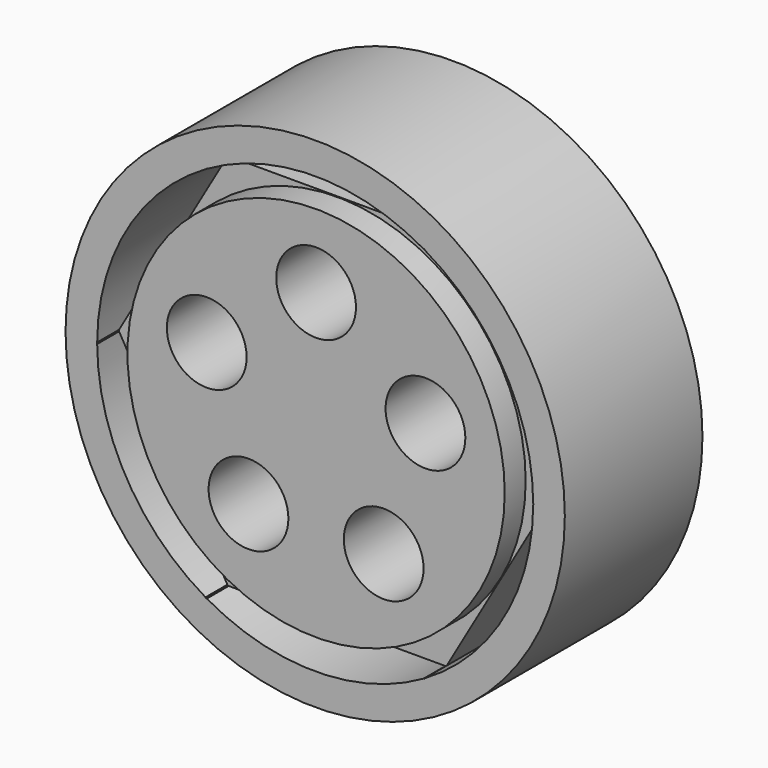
from build123d import *

# Parameters (mm, degrees)
F0_R     = 55.655673
F1_DEPTH = 38.354
F0_R_2   = 42.052498
F0_R_3   = 8.892403
F2_DEPTH = 38.1
F3_DEPTH = 32.258


with BuildPart() as f1:
    # F0 (on Front) → F1 (new body)
    with BuildSketch(Plane.XZ):
        Circle(F0_R)
        with BuildLine():
            ThreePointArc((24.44715, 42.007923), (42.09212, 24.301897), (48.603504, 0.167891))
            Line((48.603504, 0.167891), (48.700436, 0))
            Line((48.700436, 0), (48.603504, -0.167891))
            ThreePointArc((48.603504, -0.167891), (42.09212, -24.301897), (24.44715, -42.007923))
            Line((24.44715, -42.007923), (24.350218, -42.175815))
            Line((24.350218, -42.175815), (24.156354, -42.175815))
            ThreePointArc((24.156354, -42.175815), (0, -48.603794), (-24.156354, -42.175815))
            Line((-24.156354, -42.175815), (-24.350218, -42.175815))
            Line((-24.350218, -42.175815), (-24.44715, -42.007923))
            ThreePointArc((-24.44715, -42.007923), (-42.09212, -24.301897), (-48.603504, -0.167891))
            Line((-48.603504, -0.167891), (-48.700436, 0))
            Line((-48.700436, 0), (-48.603504, 0.167891))
            ThreePointArc((-48.603504, 0.167891), (-42.09212, 24.301897), (-24.44715, 42.007923))
            Line((-24.44715, 42.007923), (-24.350218, 42.175815))
            Line((-24.350218, 42.175815), (-24.156354, 42.175815))
            ThreePointArc((-24.156354, 42.175815), (0, 48.603794), (24.156354, 42.175815))
            Line((24.156354, 42.175815), (24.350218, 42.175815))
            Line((24.350218, 42.175815), (24.44715, 42.007923))
        make_face(mode=Mode.SUBTRACT)
    extrude(amount=F1_DEPTH)



with BuildPart() as f2:
    # F0 (on Front) → F2 (new body)
    with BuildSketch(Plane.XZ):
        Circle(F0_R_2)
        with Locations((-15.068627, -20.740186)):
            Circle(F0_R_3, mode=Mode.SUBTRACT)
        with Locations((15.068627, -20.740186)):
            Circle(F0_R_3, mode=Mode.SUBTRACT)
        with Locations((-24.381551, 7.922046)):
            Circle(F0_R_3, mode=Mode.SUBTRACT)
        with Locations((24.381551, 7.922046)):
            Circle(F0_R_3, mode=Mode.SUBTRACT)
        with Locations((0, 25.63628)):
            Circle(F0_R_3, mode=Mode.SUBTRACT)
    extrude(amount=F2_DEPTH)


with BuildPart() as f1_1:
    add(f1.part)

    add(f2.part)  # F3 merges F2
    # F0 (on Front) → F3 (join)
    with BuildSketch(Plane.XZ):
        with BuildLine():
            ThreePointArc((48.603504, -0.167891), (48.603721, -0.083946), (48.603794, 0))
            ThreePointArc((48.603794, 0), (48.603721, 0.083946), (48.603504, 0.167891))
            Line((48.603504, 0.167891), (24.44715, 42.007923))
            ThreePointArc((24.44715, 42.007923), (24.301897, 42.09212), (24.156354, 42.175815))
            Line((24.156354, 42.175815), (-24.156354, 42.175815))
            ThreePointArc((-24.156354, 42.175815), (-24.301897, 42.09212), (-24.44715, 42.007923))
            Line((-24.44715, 42.007923), (-48.603504, 0.167891))
            ThreePointArc((-48.603504, 0.167891), (-48.603794, 0), (-48.603504, -0.167891))
            Line((-48.603504, -0.167891), (-24.44715, -42.007923))
            ThreePointArc((-24.44715, -42.007923), (-24.301897, -42.09212), (-24.156354, -42.175815))
            Line((-24.156354, -42.175815), (24.156354, -42.175815))
            ThreePointArc((24.156354, -42.175815), (24.301897, -42.09212), (24.44715, -42.007923))
            Line((24.44715, -42.007923), (48.603504, -0.167891))
        make_face()
        Circle(F0_R_2, mode=Mode.SUBTRACT)
    extrude(amount=F3_DEPTH)


solid = f1_1.part
